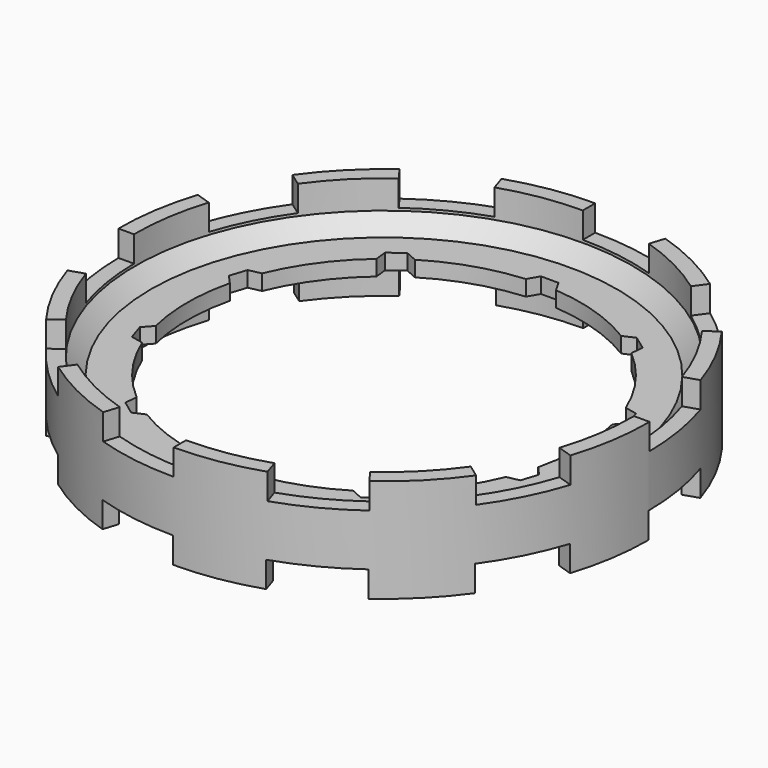
from build123d import *

# Parameters (mm, degrees)
F0_R      = 51
F0_R_2    = 48
F1_DEPTH  = 10
F0_R_3    = 38
F2_DEPTH  = 1.5
F5_DEPTH  = 25
F8_DEPTH  = 25
F11_DEPTH = 25
F12_SIZE  = 3


with BuildPart() as f1:
    # F0 (on Top) → F1 (new body, symmetric)
    with BuildSketch(Plane.XY):
        Circle(F0_R)
        Circle(F0_R_2, mode=Mode.SUBTRACT)
    extrude(amount=F1_DEPTH, both=True)

    # F0 (on Top) → F2 (join, symmetric)
    with BuildSketch(Plane.XY):
        Circle(F0_R_2)
        Circle(F0_R_3, mode=Mode.SUBTRACT)
    extrude(amount=F2_DEPTH, both=True)

    # F4 (on offset) → F5 (cut)
    with BuildSketch(Plane.XY.offset(15)):
        Polygon((-1.690599, 40), (-4, 36), (4, 36), (1.690599, 40), align=None)
        Polygon((-17.924201, 31.475753), (-22.143687, 33.354389), (-24.879133, 31.366971), (-24.396337, 26.773471), align=None)
        Polygon((-33.001967, 14.928838), (-37.519837, 13.968535), (-38.564684, 10.752825), (-35.474103, 7.320386), align=None)
        Polygon((-35.474103, -7.320386), (-38.564684, -10.752825), (-37.519837, -13.968535), (-33.001967, -14.928838), align=None)
        Polygon((-24.396337, -26.773471), (-24.879133, -31.366971), (-22.143687, -33.354389), (-17.924201, -31.475753), align=None)
        Polygon((-4, -36), (-1.690599, -40), (1.690599, -40), (4, -36), align=None)
        Polygon((17.924201, -31.475753), (22.143687, -33.354389), (24.879133, -31.366971), (24.396337, -26.773471), align=None)
        Polygon((33.001967, -14.928838), (37.519837, -13.968535), (38.564684, -10.752825), (35.474103, -7.320386), align=None)
        Polygon((35.474103, 7.320386), (38.564684, 10.752825), (37.519837, 13.968535), (33.001967, 14.928838), align=None)
        Polygon((24.396337, 26.773471), (24.879133, 31.366971), (22.143687, 33.354389), (17.924201, 31.475753), align=None)
    extrude(amount=-F5_DEPTH, mode=Mode.SUBTRACT)

    # F7 (on offset) → F8 (cut)
    with BuildSketch(Plane.XY.offset(30)):
        with BuildLine():
            Line((0, 55.1512), (0, 35.000008))
            ThreePointArc((0, 35.000008), (5.367163, 34.584221), (10.606253, 33.346784))
            Line((10.606253, 33.346784), (16.739279, 52.542006))
            ThreePointArc((16.739279, 52.542006), (8.470705, 54.494987), (0, 55.1512))
        make_face()
        with BuildLine():
            Line((-32.401203, 44.569659), (-20.556629, 28.267002))
            ThreePointArc((-20.556629, 28.267002), (-15.97011, 31.085363), (-11.004249, 33.163715))
            Line((-11.004249, 33.163715), (-17.325195, 52.297878))
            ThreePointArc((-17.325195, 52.297878), (-25.162546, 49.017727), (-32.401203, 44.569659))
        make_face()
        with BuildLine():
            Line((-52.394652, 16.964063), (-33.229729, 10.737002))
            ThreePointArc((-33.229729, 10.737002), (-31.175748, 15.712992), (-28.379908, 20.313274))
            Line((-28.379908, 20.313274), (-44.740439, 32.077778))
            ThreePointArc((-44.740439, 32.077778), (-49.152965, 24.817401), (-52.394652, 16.964063))
        make_face()
        with BuildLine():
            Line((-52.343531, -17.121188), (-33.178608, -10.894127))
            ThreePointArc((-33.178608, -10.894127), (-34.441716, -5.661167), (-34.883811, -0.296107))
            Line((-34.883811, -0.296107), (-55.034761, -0.394902))
            ThreePointArc((-55.034761, -0.394902), (-54.337027, -8.862288), (-52.343531, -17.121188))
        make_face()
        with BuildLine():
            Line((-32.267365, -44.666687), (-20.422791, -28.36403))
            ThreePointArc((-20.422791, -28.36403), (-24.520524, -24.872912), (-28.031689, -20.792345))
            Line((-28.031689, -20.792345), (-44.27608, -32.716703))
            ThreePointArc((-44.27608, -32.716703), (-38.734596, -39.156844), (-32.267365, -44.666687))
        make_face()
        with BuildLine():
            Line((0.165433, -55.150989), (0.165433, -34.999797))
            ThreePointArc((0.165433, -34.999797), (-5.20173, -34.58401), (-10.44082, -33.346573))
            Line((-10.44082, -33.346573), (-16.573846, -52.541795))
            ThreePointArc((-16.573846, -52.541795), (-8.305272, -54.494776), (0.165433, -55.150989))
        make_face()
        with BuildLine():
            Line((32.566636, -44.569448), (20.722062, -28.266791))
            ThreePointArc((20.722062, -28.266791), (16.135543, -31.085152), (11.169682, -33.163504))
            Line((11.169682, -33.163504), (17.490629, -52.297667))
            ThreePointArc((17.490629, -52.297667), (25.327979, -49.017516), (32.566636, -44.569448))
        make_face()
        with BuildLine():
            Line((52.560085, -16.963852), (33.395162, -10.736791))
            ThreePointArc((33.395162, -10.736791), (31.341182, -15.712781), (28.545341, -20.313063))
            Line((28.545341, -20.313063), (44.905873, -32.077567))
            ThreePointArc((44.905873, -32.077567), (49.318398, -24.81719), (52.560085, -16.963852))
        make_face()
        with BuildLine():
            Line((52.508964, 17.121399), (33.344041, 10.894338))
            ThreePointArc((33.344041, 10.894338), (34.607149, 5.661378), (35.049244, 0.296318))
            Line((35.049244, 0.296318), (55.200194, 0.395113))
            ThreePointArc((55.200194, 0.395113), (54.50246, 8.862499), (52.508964, 17.121399))
        make_face()
        with BuildLine():
            Line((32.432798, 44.666898), (20.588224, 28.364241))
            ThreePointArc((20.588224, 28.364241), (24.685957, 24.873123), (28.197122, 20.792556))
            Line((28.197122, 20.792556), (44.441513, 32.716914))
            ThreePointArc((44.441513, 32.716914), (38.900029, 39.157055), (32.432798, 44.666898))
        make_face()
    extrude(amount=-F8_DEPTH, mode=Mode.SUBTRACT)

    # F10 (on offset) → F11 (cut)
    with BuildSketch(Plane.XY.offset(-30)):
        with BuildLine():
            Line((0.082717, 55.000105), (0.082717, 35.346372))
            ThreePointArc((0.082717, 35.346372), (5.555695, 34.920086), (10.896661, 33.651511))
            Line((10.896661, 33.651511), (16.909585, 52.362845))
            ThreePointArc((16.909585, 52.362845), (8.598858, 54.336791), (0.082717, 55.000105))
        make_face()
        with BuildLine():
            Line((-32.245472, 44.49604), (-20.693297, 28.595835))
            ThreePointArc((-20.693297, 28.595835), (-16.015001, 31.467899), (-10.948419, 33.580942))
            Line((-10.948419, 33.580942), (-17.082107, 52.253037))
            ThreePointArc((-17.082107, 52.253037), (-24.965883, 48.965069), (-32.245472, 44.49604))
        make_face()
        with BuildLine():
            Line((-52.225392, 16.99604), (-33.53358, 10.922702))
            ThreePointArc((-33.53358, 10.922702), (-31.436915, 15.996084), (-28.57998, 20.683634))
            Line((-28.57998, 20.683634), (-44.51742, 32.184385))
            ThreePointArc((-44.51742, 32.184385), (-48.962909, 24.890396), (-52.225392, 16.99604))
        make_face()
        with BuildLine():
            Line((-52.225392, -16.995829), (-33.53358, -10.922491))
            ThreePointArc((-33.53358, -10.922491), (-34.819402, -5.585651), (-35.263365, -0.114078))
            Line((-35.263365, -0.114078), (-54.916996, -0.177568))
            ThreePointArc((-54.916996, -0.177568), (-54.226174, -8.691522), (-52.225392, -16.995829))
        make_face()
        with BuildLine():
            Line((-32.245472, -44.495829), (-20.693297, -28.595624))
            ThreePointArc((-20.693297, -28.595624), (-24.870465, -25.033816), (-28.445749, -20.868177))
            Line((-28.445749, -20.868177), (-44.308552, -32.471656))
            ThreePointArc((-44.308552, -32.471656), (-38.745288, -38.953534), (-32.245472, -44.495829))
        make_face()
        with BuildLine():
            Line((0.082717, -54.999895), (0.082717, -35.346161))
            ThreePointArc((0.082717, -35.346161), (-5.390261, -34.919875), (-10.731228, -33.6513))
            Line((-10.731228, -33.6513), (-16.744152, -52.362634))
            ThreePointArc((-16.744152, -52.362634), (-8.433425, -54.33658), (0.082717, -54.999895))
        make_face()
        with BuildLine():
            Line((32.410905, -44.495829), (20.85873, -28.595624))
            ThreePointArc((20.85873, -28.595624), (16.180434, -31.467688), (11.113852, -33.580731))
            Line((11.113852, -33.580731), (17.24754, -52.252826))
            ThreePointArc((17.24754, -52.252826), (25.131316, -48.964858), (32.410905, -44.495829))
        make_face()
        with BuildLine():
            Line((52.390825, -16.995829), (33.699013, -10.922491))
            ThreePointArc((33.699013, -10.922491), (31.602348, -15.995873), (28.745413, -20.683423))
            Line((28.745413, -20.683423), (44.682853, -32.184174))
            ThreePointArc((44.682853, -32.184174), (49.128343, -24.890185), (52.390825, -16.995829))
        make_face()
        with BuildLine():
            Line((52.390825, 16.99604), (33.699013, 10.922702))
            ThreePointArc((33.699013, 10.922702), (34.984835, 5.585862), (35.428798, 0.114289))
            Line((35.428798, 0.114289), (55.08243, 0.177779))
            ThreePointArc((55.08243, 0.177779), (54.391607, 8.691733), (52.390825, 16.99604))
        make_face()
        with BuildLine():
            Line((32.410905, 44.49604), (20.85873, 28.595835))
            ThreePointArc((20.85873, 28.595835), (25.035898, 25.034027), (28.611182, 20.868388))
            Line((28.611182, 20.868388), (44.473985, 32.471867))
            ThreePointArc((44.473985, 32.471867), (38.910722, 38.953745), (32.410905, 44.49604))
        make_face()
    extrude(amount=F11_DEPTH, mode=Mode.SUBTRACT)

    # F12
    f12_edges = [f1.edges().sort_by_distance(p)[0] for p in [
        (-48, 0, 1.5),
        (-48, 0, -1.5),
    ]]
    chamfer(f12_edges, length=F12_SIZE)


solid = f1.part
